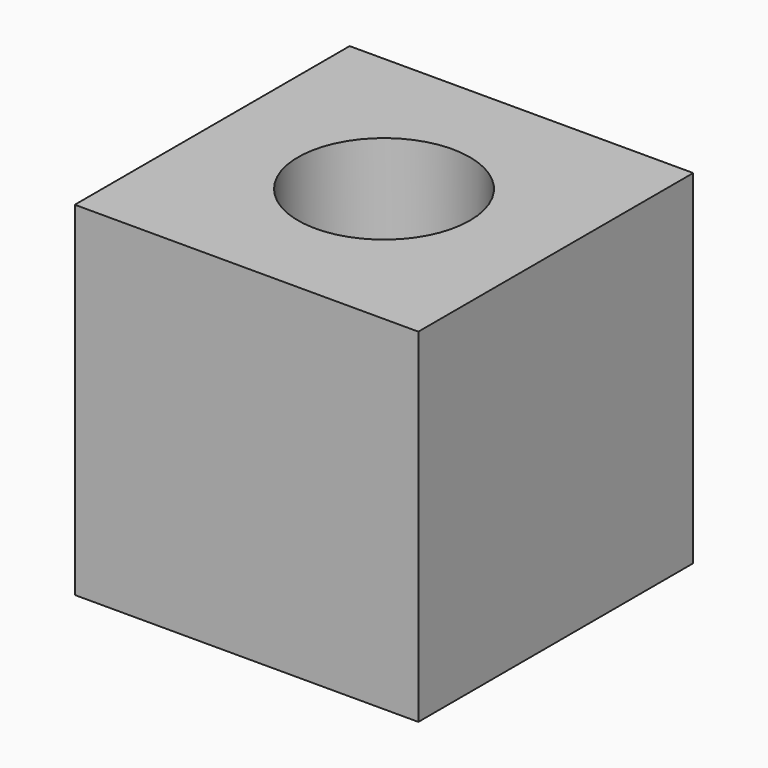
from build123d import *

# Parameters (mm, degrees)
F0_W     = 50.8
F0_H     = 50.8
F1_DEPTH = 50.8
F3_DEPTH = 25.4
F5_R     = 12.7
F6_DEPTH = 50.8


with BuildPart() as f1:
    # F0 (on Front) → F1 (new body)
    with BuildSketch(Plane.XZ):
        with Locations((25.4, 25.4)):
            Rectangle(F0_W, F0_H)
    extrude(amount=F1_DEPTH)

    # F2 (on face) → F3 (join)
    with BuildSketch(Plane.XY.offset(50.8)):
        Polygon((35.781679, -47.291025), (23.081679, -25.293979), (10.381679, -47.291025), align=None)
    extrude(amount=-F3_DEPTH)

    # F5 (on face) → F6 (cut)
    with BuildSketch(Plane.XY.offset(50.8)):
        with Locations((25.4, -25.4)):
            Circle(F5_R)
    extrude(amount=-F6_DEPTH, mode=Mode.SUBTRACT)


solid = f1.part
